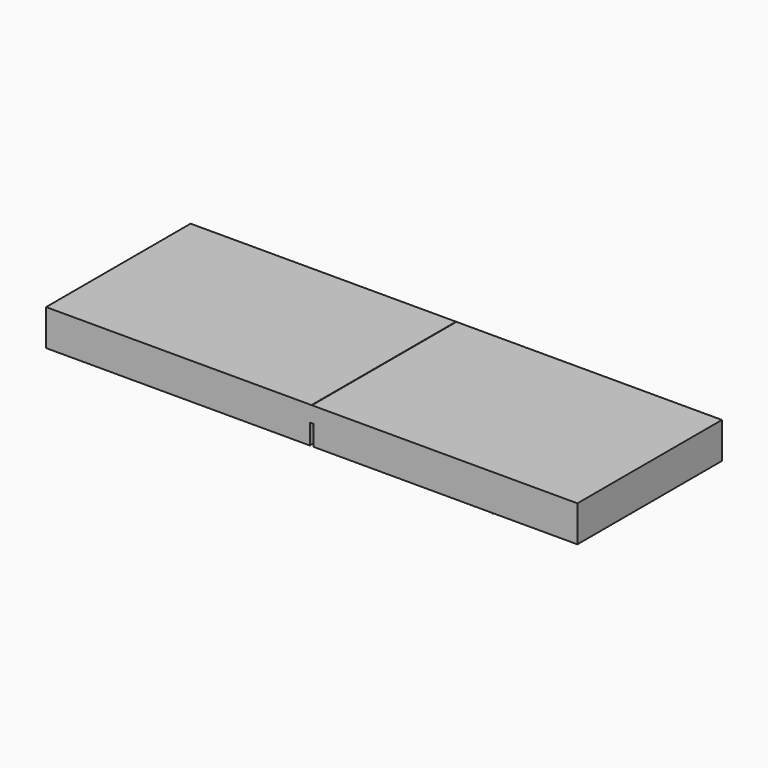
from build123d import *

# Parameters (mm, degrees)
F0_W     = 7.35295
F0_H     = 1
F1_DEPTH = 5
F2_W     = 0.051922
F2_H     = 0.562747
F3_DEPTH = 5.001
F4_W     = 0.005
F4_H     = 5
F5_DEPTH = 0.01
F6_W     = 0.005
F6_H     = 5
F7_DEPTH = 0.01


with BuildPart() as f1:
    # F0 (on Front) → F1 (new body)
    with BuildSketch(Plane.XZ):
        with Locations((3.676475, 0)):
            Rectangle(F0_W, F0_H)
        with Locations((-3.676475, 0)):
            Rectangle(F0_W, F0_H)
    extrude(amount=F1_DEPTH)

    # F2 (on face) → F3 (cut, through all)
    with BuildSketch(Plane.XZ.offset(5)):
        with Locations((-0.025961, -0.218627)):
            Rectangle(F2_W, F2_H)
        with Locations((0.025961, -0.218627)):
            Rectangle(F2_W, F2_H)
    extrude(amount=-F3_DEPTH, mode=Mode.SUBTRACT)

    # F4 (on face) → F5 (join)
    with BuildSketch(Plane.XY.offset(0.5)):
        with Locations((-0.0025, -2.5)):
            Rectangle(F4_W, F4_H)
        with Locations((0.0025, -2.5)):
            Rectangle(F4_W, F4_H)
    extrude(amount=F5_DEPTH)

    # F6 (on face) → F7 (join)
    with BuildSketch(Plane(origin=(0, 0, -0.5), x_dir=(1, 0, 0), z_dir=(0, 0, -1))):
        with Locations((-4.9975, 2.5)):
            Rectangle(F6_W, F6_H)
        with Locations((-5.0025, 2.5)):
            Rectangle(F6_W, F6_H)
        with Locations((5.0025, 2.5)):
            Rectangle(F6_W, F6_H)
        with Locations((4.9975, 2.5)):
            Rectangle(F6_W, F6_H)
    extrude(amount=F7_DEPTH)


solid = f1.part
